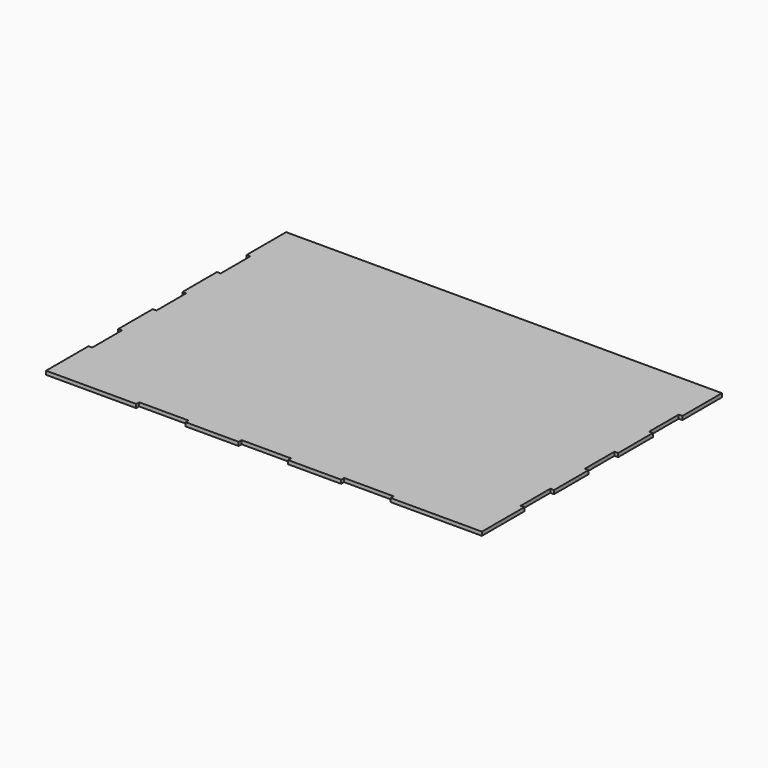
from build123d import *

# Parameters (mm, degrees)
F1_DEPTH = 3


with BuildPart() as f1:
    # F0 (on Top) → F1 (new body)
    with BuildSketch(Plane.XY):
        Polygon((-188.813949, 43), (-188.813949, 0), (-115.813949, 0), (-115.813949, 3), (-75.813949, 3), (-75.813949, 0), (-32.813949, 0), (-32.813949, 3), (7.186051, 3), (7.186051, 0), (50.186051, 0), (50.186051, 3), (90.186051, 3), (90.186051, 0), (164.186051, 0), (164.186051, 43), (161.186051, 43), (161.186051, 73), (164.186051, 73), (164.186051, 108), (161.186051, 108), (161.186051, 138), (164.186051, 138), (164.186051, 173), (161.186051, 173), (161.186051, 203), (164.186051, 203), (164.186051, 243), (-188.813949, 243), (-188.813949, 203), (-185.813949, 203), (-185.813949, 173), (-188.813949, 173), (-188.813949, 138), (-185.813949, 138), (-185.813949, 108), (-188.813949, 108), (-188.813949, 73), (-185.813949, 73), (-185.813949, 43), align=None)
    extrude(amount=F1_DEPTH)


solid = f1.part
